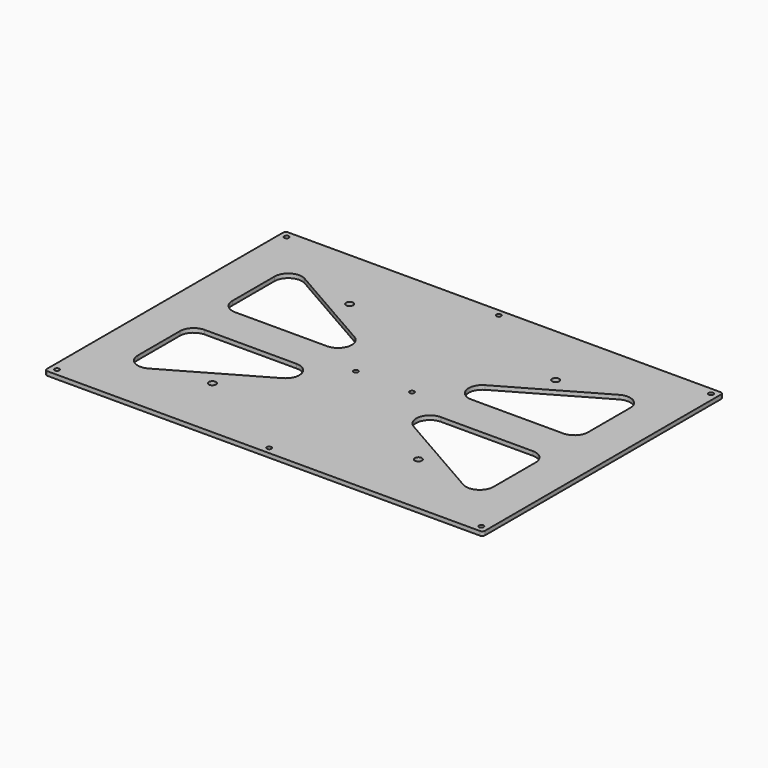
from build123d import *

# Parameters (mm, degrees)
F0_R     = 1.7
F1_DEPTH = 3
F3_DEPTH = 3.001
F4_R     = 2.6
F5_DEPTH = 25


with BuildPart() as f1:
    # F0 (on Top) → F1 (new body)
    with BuildSketch(Plane.XY):
        with BuildLine():
            Line((-157.5, -109.5), (157.5, -109.5))
            ThreePointArc((157.5, -109.5), (158.914214, -108.914214), (159.5, -107.5))
            Line((159.5, -107.5), (159.5, 107.5))
            ThreePointArc((159.5, 107.5), (158.914214, 108.914214), (157.5, 109.5))
            Line((157.5, 109.5), (-157.5, 109.5))
            ThreePointArc((-157.5, 109.5), (-158.914214, 108.914214), (-159.5, 107.5))
            Line((-159.5, 107.5), (-159.5, -107.5))
            ThreePointArc((-159.5, -107.5), (-158.914214, -108.914214), (-157.5, -109.5))
        make_face()
        with Locations((-154.5, -104.5)):
            Circle(F0_R, mode=Mode.SUBTRACT)
        with Locations((0, -104.5)):
            Circle(F0_R, mode=Mode.SUBTRACT)
        with Locations((154.5, -104.5)):
            Circle(F0_R, mode=Mode.SUBTRACT)
        with Locations((-20.5, 0)):
            Circle(F0_R, mode=Mode.SUBTRACT)
        with Locations((-154.5, 104.5)):
            Circle(F0_R, mode=Mode.SUBTRACT)
        with Locations((20.5, 0)):
            Circle(F0_R, mode=Mode.SUBTRACT)
        with Locations((0, 104.5)):
            Circle(F0_R, mode=Mode.SUBTRACT)
        with Locations((154.5, 104.5)):
            Circle(F0_R, mode=Mode.SUBTRACT)
    extrude(amount=F1_DEPTH)

    # F2 (on face) → F3 (cut, through all)
    with BuildSketch(Plane.XY.offset(3)):
        with BuildLine():
            Line((-129.5, 62.243366), (-129.5, 23.88142))
            ThreePointArc((-129.5, 23.88142), (-126.571068, 16.810352), (-119.5, 13.88142))
            Line((-119.5, 13.88142), (-52.560989, 13.88142))
            ThreePointArc((-52.560989, 13.88142), (-42.897598, 21.3087), (-47.588749, 32.557642))
            Line((-47.588749, 32.557642), (-114.527761, 70.919589))
            ThreePointArc((-114.527761, 70.919589), (-124.513861, 70.895603), (-129.5, 62.243366))
        make_face()
        with BuildLine():
            Line((52.560989, 13.88142), (119.5, 13.88142))
            ThreePointArc((119.5, 13.88142), (126.571068, 16.810352), (129.5, 23.88142))
            Line((129.5, 23.88142), (129.5, 62.243366))
            ThreePointArc((129.5, 62.243366), (124.513861, 70.895603), (114.527761, 70.919589))
            Line((114.527761, 70.919589), (47.588749, 32.557642))
            ThreePointArc((47.588749, 32.557642), (42.897598, 21.3087), (52.560989, 13.88142))
        make_face()
        with BuildLine():
            ThreePointArc((114.527761, -70.919589), (124.513861, -70.895603), (129.5, -62.243366))
            Line((129.5, -62.243366), (129.5, -23.88142))
            ThreePointArc((129.5, -23.88142), (126.571068, -16.810352), (119.5, -13.88142))
            Line((119.5, -13.88142), (52.560989, -13.88142))
            ThreePointArc((52.560989, -13.88142), (42.897598, -21.3087), (47.588749, -32.557642))
            Line((47.588749, -32.557642), (114.527761, -70.919589))
        make_face()
        with BuildLine():
            Line((-129.5, -23.88142), (-129.5, -62.243366))
            ThreePointArc((-129.5, -62.243366), (-124.513861, -70.895603), (-114.527761, -70.919589))
            Line((-114.527761, -70.919589), (-47.588749, -32.557642))
            ThreePointArc((-47.588749, -32.557642), (-42.897598, -21.3087), (-52.560989, -13.88142))
            Line((-52.560989, -13.88142), (-119.5, -13.88142))
            ThreePointArc((-119.5, -13.88142), (-126.571068, -16.810352), (-129.5, -23.88142))
        make_face()
    extrude(amount=-F3_DEPTH, mode=Mode.SUBTRACT)

    # F4 (on face) → F5 (cut)
    with BuildSketch(Plane.XY.offset(3)):
        with Locations((-75, 62.5)):
            Circle(F4_R)
        with Locations((-75, -62.5)):
            Circle(F4_R)
        with Locations((75, 62.5)):
            Circle(F4_R)
        with Locations((75, -62.5)):
            Circle(F4_R)
    extrude(amount=-F5_DEPTH, mode=Mode.SUBTRACT)


solid = f1.part
